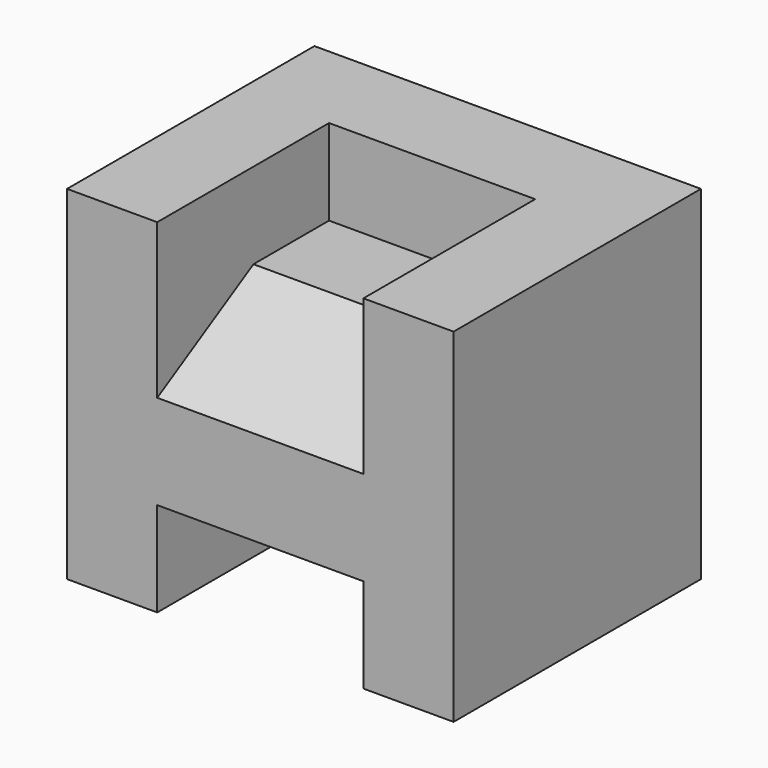
from build123d import *

# Parameters (mm, degrees)
F0_W     = 36
F0_H     = 11
F1_DEPTH = 22.5
F2_DEPTH = 12
F3_DEPTH = 12


with BuildPart() as f1:
    # F0 (on Right) → F1 (new body, symmetric)
    with BuildSketch(Plane.YZ):
        with Locations((18, 5.5)):
            Rectangle(F0_W, F0_H)
        Polygon((0, 22), (0, 11), (36, 11), (36, 40), (25, 40), (25, 30), (14, 30), align=None)
        Polygon((0, 40), (0, 22), (14, 30), (25, 30), (25, 40), align=None)
    extrude(amount=F1_DEPTH, both=True)

    # F0 (on Right) → F2 (cut, symmetric)
    with BuildSketch(Plane.YZ):
        with Locations((18, 5.5)):
            Rectangle(F0_W, F0_H)
    extrude(amount=F2_DEPTH, both=True, mode=Mode.SUBTRACT)

    # F0 (on Right) → F3 (cut, symmetric)
    with BuildSketch(Plane.YZ):
        Polygon((0, 40), (0, 22), (14, 30), (25, 30), (25, 40), align=None)
    extrude(amount=F3_DEPTH, both=True, mode=Mode.SUBTRACT)


solid = f1.part
